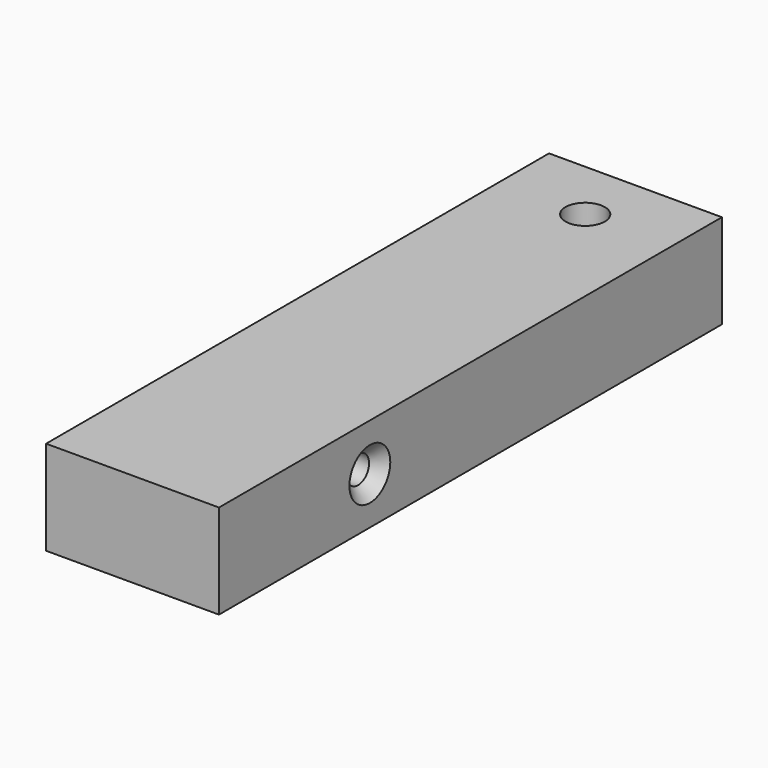
from build123d import *

# Parameters (mm, degrees)
F0_W     = 22
F0_H     = 80
F1_DEPTH = 12
F2_R     = 1.75
F3_DEPTH = 25
F4_SIZE  = 1.5
F5_R     = 4
F6_DEPTH = 4
F8_D     = 5


with BuildPart() as f1:
    # F0 (on Top) → F1 (new body)
    with BuildSketch(Plane.XY):
        Rectangle(F0_W, F0_H)
    extrude(amount=F1_DEPTH)

    # F2 (on face) → F3 (cut)
    with BuildSketch(Plane.YZ.offset(11)):
        with Locations((-16, 6)):
            Circle(F2_R)
    extrude(amount=-F3_DEPTH, mode=Mode.SUBTRACT)

    # F4
    f4_edges = [f1.edges().sort_by_distance(p)[0] for p in [
        (11, -17.75, 6),
        (-11, -17.75, 6),
    ]]
    chamfer(f4_edges, length=F4_SIZE)

    # F5 (on face) → F6 (cut)
    with BuildSketch(Plane(origin=(0, 0, 0), x_dir=(1, 0, 0), z_dir=(0, 0, -1))):
        with Locations((0, 32)):
            Circle(F5_R)
    extrude(amount=-F6_DEPTH, mode=Mode.SUBTRACT)

    # F8 (through all)
    with Locations(Plane.XY.offset(12)):
        with Locations((0, 32)):
            Hole(F8_D / 2)


solid = f1.part
